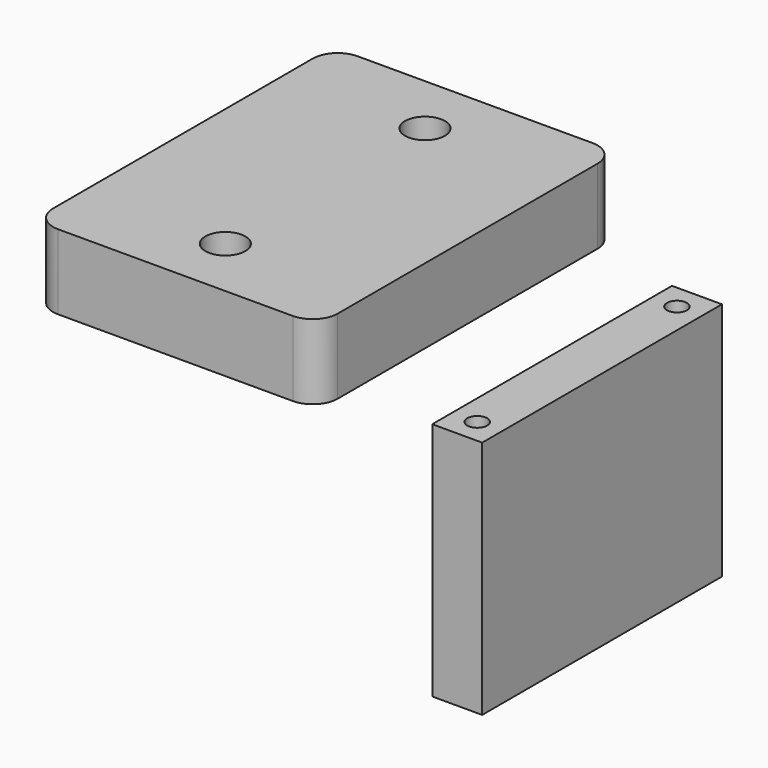
from build123d import *

# Parameters (mm, degrees)
F0_W     = 10
F0_H     = 48
F1_DEPTH = 60
F2_R     = 2
F3_DEPTH = 20
F4_R     = 2
F5_DEPTH = 20
F6_DEPTH = 15
F7_R     = 2
F8_DEPTH = 63.001
F7_R_2   = 4
F9_DEPTH = 5


with BuildPart() as f1:
    # F0 (on Front) → F1 (new body)
    with BuildSketch(Plane.XZ):
        with Locations((5, 24)):
            Rectangle(F0_W, F0_H)
    extrude(amount=F1_DEPTH)

    # F2 (on face) → F3 (cut)
    with BuildSketch(Plane(origin=(0, 0, 0), x_dir=(1, 0, 0), z_dir=(0, 0, -1))):
        with Locations((5, 55)):
            Circle(F2_R)
        with Locations((5, 5)):
            Circle(F2_R)
    extrude(amount=-F3_DEPTH, mode=Mode.SUBTRACT)

    # F4 (on face) → F5 (cut)
    with BuildSketch(Plane.XY.offset(48)):
        with Locations((5, -5)):
            Circle(F4_R)
        with Locations((5, -55)):
            Circle(F4_R)
        with BuildLine():
            ThreePointArc((-73.928772, -62.5), (-72.464305, -66.035534), (-68.928772, -67.5))
            Line((-68.928772, -67.5), (-21.928772, -67.5))
            ThreePointArc((-21.928772, -67.5), (-18.393238, -66.035534), (-16.928772, -62.5))
            Line((-16.928772, -62.5), (-16.928772, -30))
            Line((-16.928772, -30), (-16.928772, 2.50006))
            ThreePointArc((-16.928772, 2.50006), (-18.401898, 6.044233), (-21.953236, 7.5))
            Line((-21.953236, 7.5), (-68.953236, 7.5))
            ThreePointArc((-68.953236, 7.5), (-72.472944, 6.026934), (-73.928772, 2.50006))
            Line((-73.928772, 2.50006), (-73.928772, -62.5))
        make_face()
    extrude(amount=-F5_DEPTH, mode=Mode.SUBTRACT)


with BuildPart() as f6:
    # F4 (on face) → F6 (new body)
    with BuildSketch(Plane.XY.offset(48)):
        with BuildLine():
            ThreePointArc((-73.928772, -62.5), (-72.464305, -66.035534), (-68.928772, -67.5))
            Line((-68.928772, -67.5), (-21.928772, -67.5))
            ThreePointArc((-21.928772, -67.5), (-18.393238, -66.035534), (-16.928772, -62.5))
            Line((-16.928772, -62.5), (-16.928772, -30))
            Line((-16.928772, -30), (-16.928772, 2.50006))
            ThreePointArc((-16.928772, 2.50006), (-18.401898, 6.044233), (-21.953236, 7.5))
            Line((-21.953236, 7.5), (-68.953236, 7.5))
            ThreePointArc((-68.953236, 7.5), (-72.472944, 6.026934), (-73.928772, 2.50006))
            Line((-73.928772, 2.50006), (-73.928772, -62.5))
        make_face()
    extrude(amount=F6_DEPTH)

    # F7 (on face) → F8 (cut, through all)
    with BuildSketch(Plane.XY.offset(63)):
        with Locations((-45.428772, -55)):
            Circle(F7_R)
        with Locations((-45.428772, -5)):
            Circle(F7_R)
    extrude(amount=-F8_DEPTH, mode=Mode.SUBTRACT)

    # F7 (on face) → F9 (cut)
    with BuildSketch(Plane.XY.offset(63)):
        with Locations((-45.453236, -5)):
            Circle(F7_R_2)
        with Locations((-45.428772, -5)):
            Circle(F7_R, mode=Mode.SUBTRACT)
        with Locations((-45.428772, -55)):
            Circle(F7_R_2)
        with Locations((-45.428772, -55)):
            Circle(F7_R, mode=Mode.SUBTRACT)
    extrude(amount=-F9_DEPTH, mode=Mode.SUBTRACT)


solid = Compound([f1.part, f6.part])
